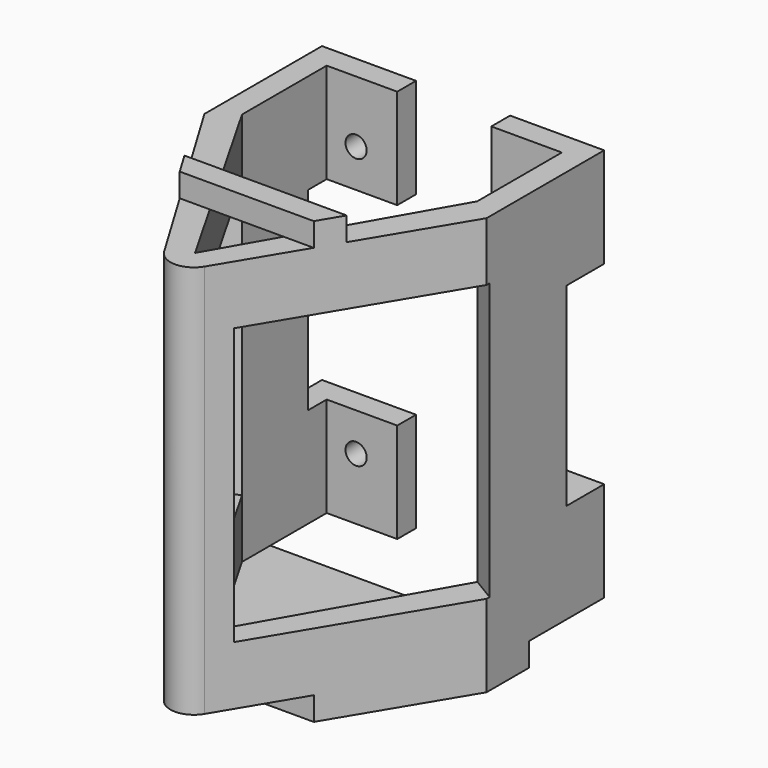
from build123d import *

# Parameters (mm, degrees)
PAD_DEPTH       = 67
SKETCH001_R     = 1.8
POCKET_DEPTH    = 5
SKETCH002_W     = 36.32
SKETCH002_H     = 47
POCKET001_DEPTH = 5
SKETCH003_W     = 36.32
SKETCH003_H     = 47
POCKET002_DEPTH = 5
FILLET_R        = 4
PAD001_DEPTH    = 4
PAD002_DEPTH    = 4
SKETCH006_W     = 8
SKETCH006_H     = 33
POCKET003_DEPTH = 100


with BuildPart() as part:
    # Sketch → Pad (new body)
    with BuildSketch(Plane.XY):
        Polygon((20, 22), (24, 22), (24, 0), (24, -3), (0, -43), (-24, -3), (-24, 0), (-24, 22), (-20, 22), (-8, 22), (-8, 18), (-20, 18), (-20, 0), (0, -35), (20, 0), (20, 18), (8, 18), (8, 22), align=None)
    extrude(amount=PAD_DEPTH)

    # Sketch001 (on Face10 of Pad) → Pocket (cut)
    with BuildSketch(Plane(origin=(0, 22, 0), x_dir=(-1, 0, 0), z_dir=(0, 1, 0))):
        with Locations((15, 56.5)):
            Circle(SKETCH001_R)
        with Locations((15, 10.5)):
            Circle(SKETCH001_R)
        with Locations((-15, 56.5)):
            Circle(SKETCH001_R)
        with Locations((-15, 10.5)):
            Circle(SKETCH001_R)
    extrude(amount=-POCKET_DEPTH, mode=Mode.SUBTRACT)

    # Sketch002 (on Face11 of Pocket) → Pocket001 (cut)
    with BuildSketch(Plane(origin=(-18.9705882353, -11.3823529412, 0), x_dir=(0.5144957554, -0.8574929257, 0), z_dir=(-0.8574929257, -0.5144957554, 0))):
        with Locations((7.84, 33.5)):
            Rectangle(SKETCH002_W, SKETCH002_H)
    extrude(amount=-POCKET001_DEPTH, mode=Mode.SUBTRACT)

    # Sketch003 (on Face10 of Pocket001) → Pocket002 (cut)
    with BuildSketch(Plane(origin=(18.9705882353, -11.3823529412, 0), x_dir=(0.5144957554, 0.8574929257, 0), z_dir=(0.8574929257, -0.5144957554, 0))):
        with Locations((-7.84, 33.5)):
            Rectangle(SKETCH003_W, SKETCH003_H)
    extrude(amount=-POCKET002_DEPTH, mode=Mode.SUBTRACT)

    # Fillet
    fillet_edges = [part.edges().sort_by_distance(p)[0] for p in [
        (0, -43, 33.5),
    ]]
    fillet(fillet_edges, radius=FILLET_R)

    # Sketch004 (on Face19 of Pad) → Pad001 (join)
    with BuildSketch(Plane(origin=(0, 0, 0), x_dir=(1, 0, 0), z_dir=(0, 0, -1))):
        Polygon((24, 3), (24, -6), (-24, -6), (-24, 3), (-11.4, 24), (11.4, 24), align=None)
    extrude(amount=PAD001_DEPTH)

    # Sketch005 → Pad002 (join)
    with BuildSketch(Plane.XY.offset(67)):
        Polygon((13.8, -20), (-13.8, -20), (-11.4, -24), (11.4, -24), align=None)
    extrude(amount=PAD002_DEPTH)

    # Sketch006 (on Face17 of Pad002) → Pocket003 (cut)
    with BuildSketch(Plane(origin=(-24, 0, 0), x_dir=(0, -1, 0), z_dir=(-1, 0, 0))):
        with Locations((-18, 33.5)):
            Rectangle(SKETCH006_W, SKETCH006_H)
    extrude(amount=-POCKET003_DEPTH, mode=Mode.SUBTRACT)


solid = part.part
